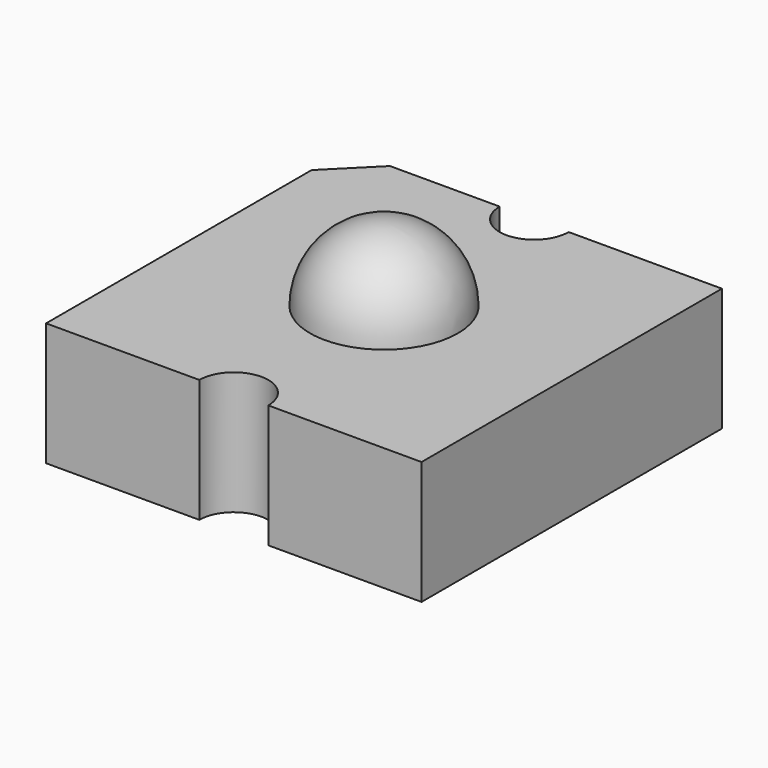
from build123d import *

# Parameters (mm, degrees)
BOX002_W               = 4
BOX002_H               = 4
BOX002_DEPTH           = 4
CYLINDER001_R          = 0.7
CYLINDER001_DEPTH      = 10
CYLINDER_R             = 0.7
CYLINDER_DEPTH         = 10
BOX001_W               = 1.25
BOX001_H               = 1.25
BOX001_DEPTH           = 2.5
BOX001_PLACEMENT_ANGLE = 45
BOX_W                  = 7.62
BOX_H                  = 7.62
BOX_DEPTH              = 2.5
CUT_PLACEMENT_ANGLE    = 90


with BuildPart() as lens_cut:
    # Box002 → Box002 (new body)
    with BuildSketch(Plane(origin=(-2, -2, -4), x_dir=(1, 0, 0), z_dir=(0, 0, 1))):
        with Locations((2, 2)):
            Rectangle(BOX002_W, BOX002_H)
    extrude(amount=BOX002_DEPTH)


with BuildPart() as led_lens001:
    # Sphere → Sphere (revolve)
    with BuildSketch(Plane.XZ):
        with BuildLine():
            ThreePointArc((0, -1.5), (1.5, 0), (0, 1.5))
            Line((0, 1.5), (0, -1.5))
        make_face()
    revolve(axis=Axis((0, 0, 0), (0, 0, 1)))

    # Cut003: cut Lens_cut
    add(lens_cut.part, mode=Mode.SUBTRACT)


with BuildPart() as led_lens001_1:
    # Cut003 placement: moved
    add(led_lens001.part.moved(Location((3.81, -3.81, 7.5))))


with BuildPart() as cut_led_right:
    # Cylinder001 → Cylinder001 (new body)
    with BuildSketch(Plane(origin=(3.81, -7.62, 0), x_dir=(1, 0, 0), z_dir=(0, 0, 1))):
        Circle(CYLINDER001_R)
    extrude(amount=CYLINDER001_DEPTH)


with BuildPart() as cut_led_left:
    # Cylinder → Cylinder (new body)
    with BuildSketch(Plane(origin=(3.81, 0, 0), x_dir=(1, 0, 0), z_dir=(0, 0, 1))):
        Circle(CYLINDER_R)
    extrude(amount=CYLINDER_DEPTH)


with BuildPart() as cut_cube:
    # Box001 → Box001 (new body)
    with BuildSketch(Plane.XY):
        with Locations((0.625, 0.625)):
            Rectangle(BOX001_W, BOX001_H)
    extrude(amount=BOX001_DEPTH)


with BuildPart() as cut_cube_1:
    # Box001 placement: moved
    add(cut_cube.part.moved(Location((7.62, 6.73612, 0))).rotate(Axis((7.62, 6.73612, 0), (0, 0, 1)), BOX001_PLACEMENT_ANGLE))


with BuildPart() as led_head002:
    # Box → Box (new body)
    with BuildSketch(Plane.XY):
        with Locations((3.81, 3.81)):
            Rectangle(BOX_W, BOX_H)
    extrude(amount=BOX_DEPTH)

    # Cut: cut cut_cube
    add(cut_cube_1.part, mode=Mode.SUBTRACT)


with BuildPart() as led_head002_1:
    # Cut placement: moved
    add(led_head002.part.moved(Location((7.62, -7.62, 5))).rotate(Axis((7.62, -7.62, 5), (0, 0, 1)), CUT_PLACEMENT_ANGLE))

    # Cut001: cut Cut_LED_left
    add(cut_led_left.part, mode=Mode.SUBTRACT)

    # Cut002: cut Cut_LED_right
    add(cut_led_right.part, mode=Mode.SUBTRACT)

    # Fusion008: union LED_lens001
    add(led_lens001_1.part)


with BuildPart() as led_head002_2:
    # Fusion008 placement: moved
    add(led_head002_1.part.moved(Location((-1.27, 1.27, -2.5))))


solid = led_head002_2.part
